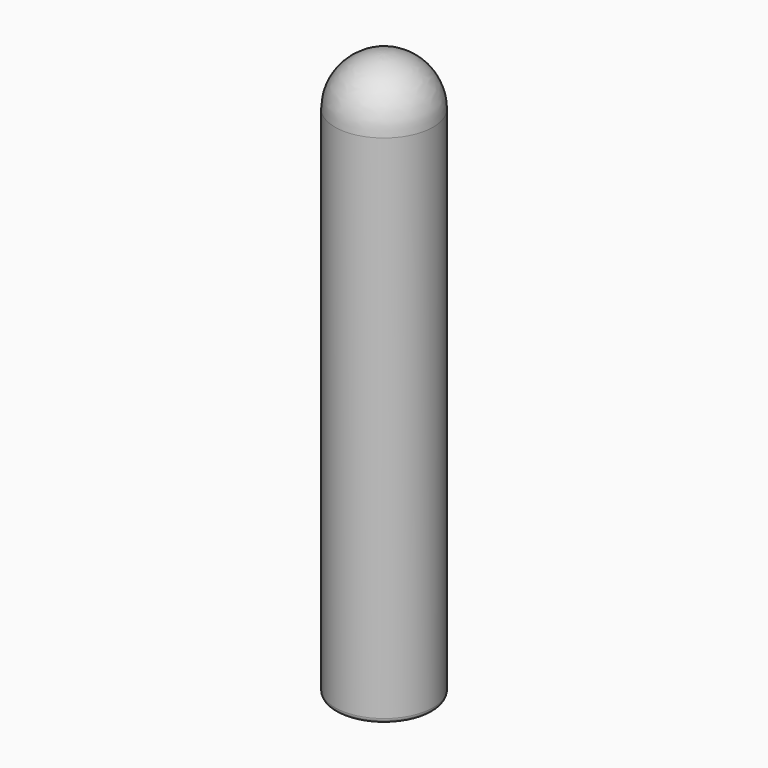
from build123d import *

# Parameters (mm, degrees)
F0_R     = 10
F1_DEPTH = 105
F4_R     = 1


with BuildPart() as f1:
    # F0 (on Top) → F1 (new body)
    with BuildSketch(Plane.XY):
        Circle(F0_R)
        Polygon((6.812733, 0), (3.406367, -5.9), (-3.406367, -5.9), (-6.812733, 0), (-3.406367, 5.9), (3.406367, 5.9), align=None, mode=Mode.SUBTRACT)
    extrude(amount=F1_DEPTH)

    # F2 (on Front) → F3 (revolve)
    with BuildSketch(Plane.XZ):
        with BuildLine():
            Line((0, 110.953029), (0, 115))
            ThreePointArc((0, 115), (-7.071068, 112.071068), (-10, 105))
            Line((-10, 105), (-5.953029, 105))
            ThreePointArc((-5.953029, 105), (-4.209427, 109.209427), (0, 110.953029))
        make_face()
    revolve(axis=Axis((0, 0, 112.976515), (0, 0, -1)))

    # F4
    f4_edges = [f1.edges().sort_by_distance(p)[0] for p in [
        (-10, 0, 0),
    ]]
    fillet(f4_edges, radius=F4_R)


solid = f1.part
